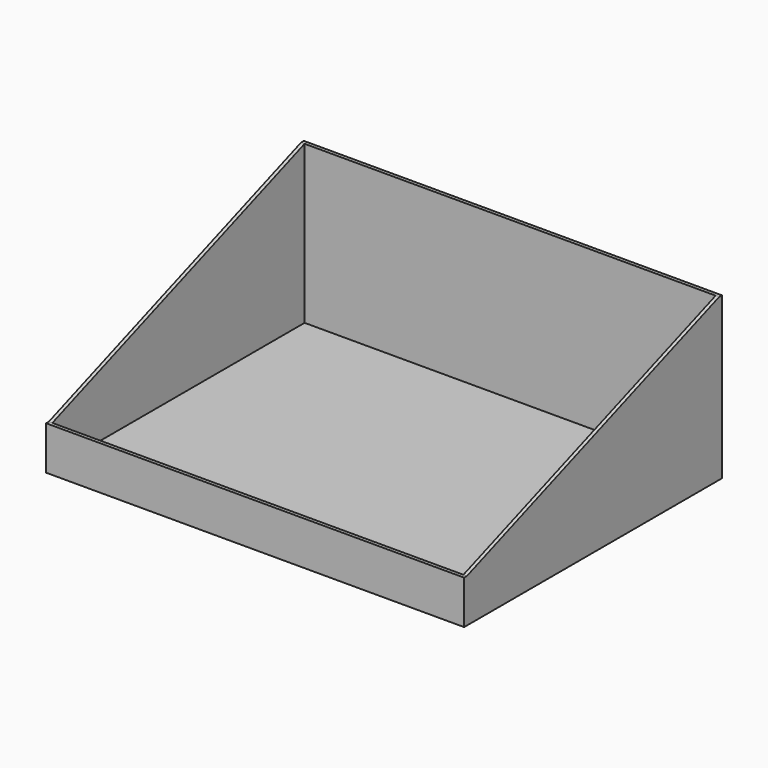
from build123d import *

# Parameters (mm, degrees)
F0_W     = 480
F0_H     = 185
F1_DEPTH = 370
F3_DEPTH = 480
F5_W     = 472
F5_H     = 362
F6_DEPTH = 181


with BuildPart() as f1:
    # F0 (on Front) → F1 (new body)
    with BuildSketch(Plane.XZ):
        with Locations((-240, 92.5)):
            Rectangle(F0_W, F0_H)
    extrude(amount=-F1_DEPTH)

    # F2 (on Right) → F3 (cut, through all)
    with BuildSketch(Plane.YZ):
        Polygon((0, 50), (4, 50), (366, 185), (0, 185), align=None)
    extrude(amount=-F3_DEPTH, mode=Mode.SUBTRACT)

    # F5 (on plane+point) → F6 (cut)
    with BuildSketch(Plane.XY.offset(185)):
        with Locations((-240, 185)):
            Rectangle(F5_W, F5_H)
    extrude(amount=-F6_DEPTH, mode=Mode.SUBTRACT)


solid = f1.part
